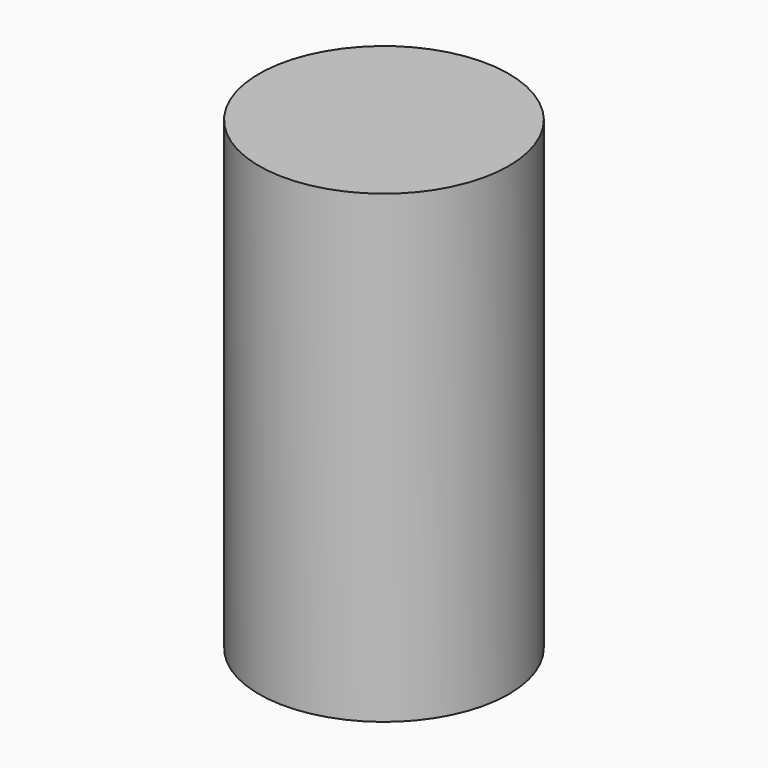
from build123d import *

# Parameters (mm, degrees)
F0_R      = 20.140817
F1_DEPTH  = 50
F2_R      = 15.312495
F3_DEPTH  = 49
F1_FACE_R = 20.140817
F4_DEPTH  = 25


with BuildPart() as f1:
    # F0 (on Top) → F1 (new body)
    with BuildSketch(Plane.XY):
        Circle(F0_R)
    extrude(amount=F1_DEPTH)

    # F2 (on Top) → F3 (cut)
    with BuildSketch(Plane.XY):
        Circle(F2_R)
    extrude(amount=F3_DEPTH, mode=Mode.SUBTRACT)

    # F1_face (on face) → F4 (join)
    with BuildSketch(Plane.XY.offset(50)):
        Circle(F1_FACE_R)
    extrude(amount=F4_DEPTH)


solid = f1.part
